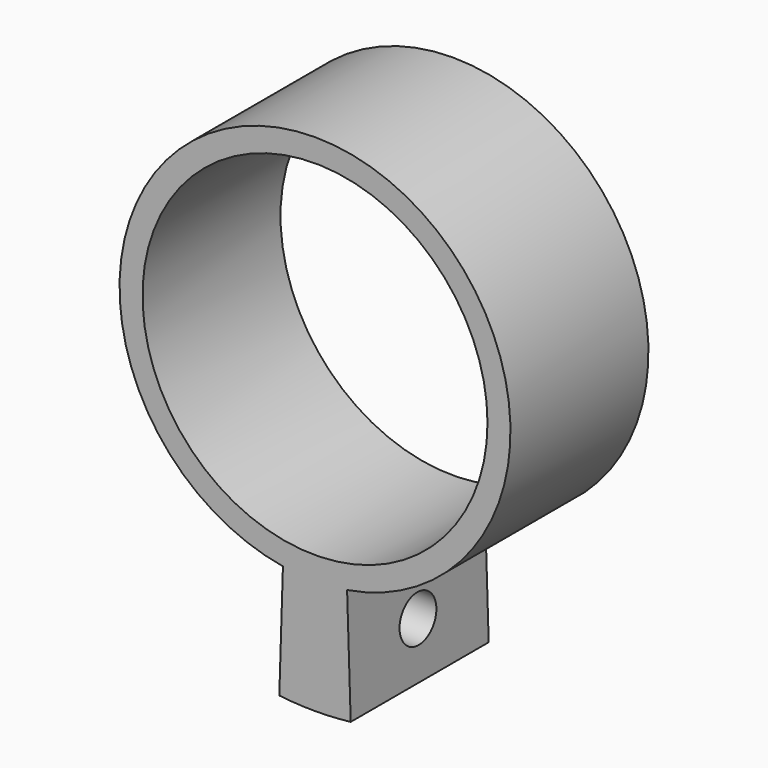
from build123d import *

# Parameters (mm, degrees)
F0_R     = 17
F0_R_2   = 15
F1_DEPTH = 15
F3_DEPTH = 15
F4_R     = 2
F5_DEPTH = 20.10135


with BuildPart() as f1:
    # F0 (on Front) → F1 (new body)
    with BuildSketch(Plane.XZ):
        Circle(F0_R)
        Circle(F0_R_2, mode=Mode.SUBTRACT)
    extrude(amount=F1_DEPTH)

    # F2 (on face) → F3 (join)
    with BuildSketch(Plane(origin=(0, 0, 0), x_dir=(-1, 0, 0), z_dir=(0, 1, 0))):
        with BuildLine():
            Line((-2.790576, -16.769397), (-3.104631, -26.764465))
            ThreePointArc((-3.104631, -26.764465), (-1.554907, -26.899025), (0, -26.943929))
            ThreePointArc((0, -26.943929), (1.554907, -26.899025), (3.104631, -26.764465))
            Line((3.104631, -26.764465), (2.790576, -16.769397))
            ThreePointArc((2.790576, -16.769397), (1.400044, -16.942251), (0, -17))
            ThreePointArc((0, -17), (-1.400044, -16.942251), (-2.790576, -16.769397))
        make_face()
    extrude(amount=-F3_DEPTH)

    # F4 (on face) → F5 (cut, through all)
    with BuildSketch(Plane(origin=(-2.261431, 0, 0.071057), x_dir=(0, -1, 0), z_dir=(-0.999507, 0, 0.031406))):
        with Locations((7.5, -21.848765)):
            Circle(F4_R)
    extrude(amount=-F5_DEPTH, mode=Mode.SUBTRACT)


solid = f1.part
